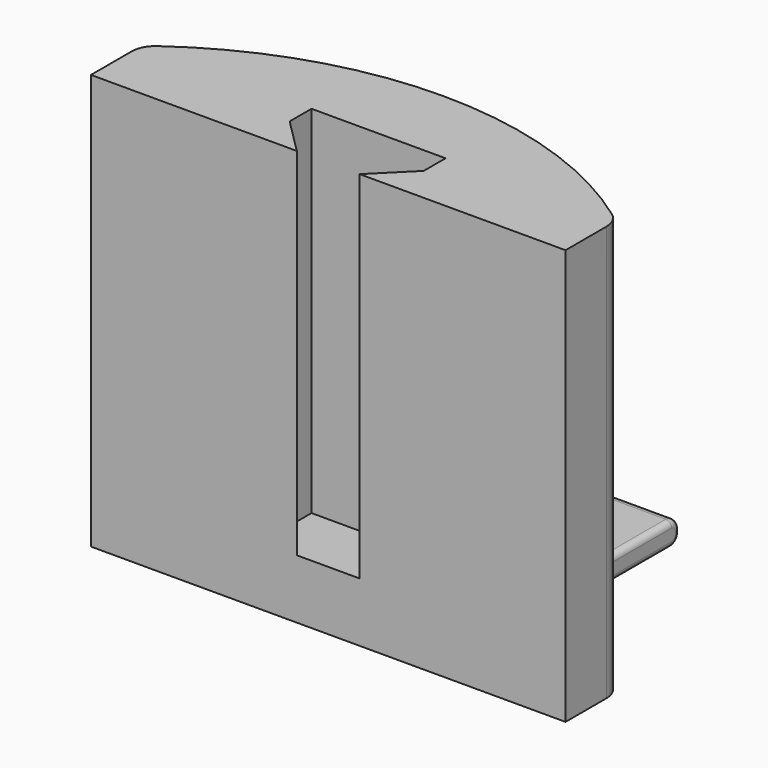
from build123d import *

# Parameters (mm, degrees)
PAD_DEPTH    = 35
SKETCH001_W  = 20
SKETCH001_H  = 15
PAD001_DEPTH = 2
FILLET_R     = 0.9
FILLET001_R  = 0.5
FILLET002_R  = 2
SKETCH002_W  = 16.059546
SKETCH002_H  = 5
PAD002_DEPTH = 10


with BuildPart() as part:
    # Sketch → Pad (new body)
    with BuildSketch(Plane.XY):
        with BuildLine():
            ThreePointArc((20, 0), (0, 6.835898), (-20, 0))
            Line((-20, -5.3), (-20, 0))
            Line((-5.65, -5.3), (-20, -5.3))
            Line((-5.65, -5.3), (-5.65, 0))
            Line((-5.65, 0), (5.65, 0))
            Line((5.65, 0), (5.65, -5.3))
            Line((20, -5.3), (5.65, -5.3))
            Line((20, 0), (20, -5.3))
        make_face()
        Polygon((-2.65, -5.3), (-5.65, -2.3), (-5.65, -5.3), align=None)
        Polygon((5.65, -5.3), (5.65, -2.3), (2.65, -5.3), align=None)
    extrude(amount=PAD_DEPTH)

    # Sketch001 (on Face13 of Pad) → Pad001 (join)
    with BuildSketch(Plane(origin=(0, 0, 0), x_dir=(1, 0, 0), z_dir=(0, 0, -1))):
        with Locations((0, -11.775117)):
            Rectangle(SKETCH001_W, SKETCH001_H)
    extrude(amount=-PAD001_DEPTH)

    # Fillet
    fillet_edges = [part.edges().sort_by_distance(p)[0] for p in [
        (0, 19.275117, 0),
        (0, 19.275117, 2),
    ]]
    fillet(fillet_edges, radius=FILLET_R)

    # Fillet001
    fillet001_edges = [part.edges().sort_by_distance(p)[0] for p in [
        (10, 19.275117, 1),
        (-10, 19.275117, 1),
    ]]
    fillet(fillet001_edges, radius=FILLET001_R)

    # Fillet002
    fillet002_edges = [part.edges().sort_by_distance(p)[0] for p in [
        (20, 0, 17.5),
        (-20, 0, 17.5),
    ]]
    fillet(fillet002_edges, radius=FILLET002_R)

    # Sketch002 (on Face24 of Fillet002) → Pad002 (join)
    with BuildSketch(Plane.XZ.offset(5.3)):
        with Locations((0, 2.5)):
            Rectangle(SKETCH002_W, SKETCH002_H)
    extrude(amount=-PAD002_DEPTH)


solid = part.part
